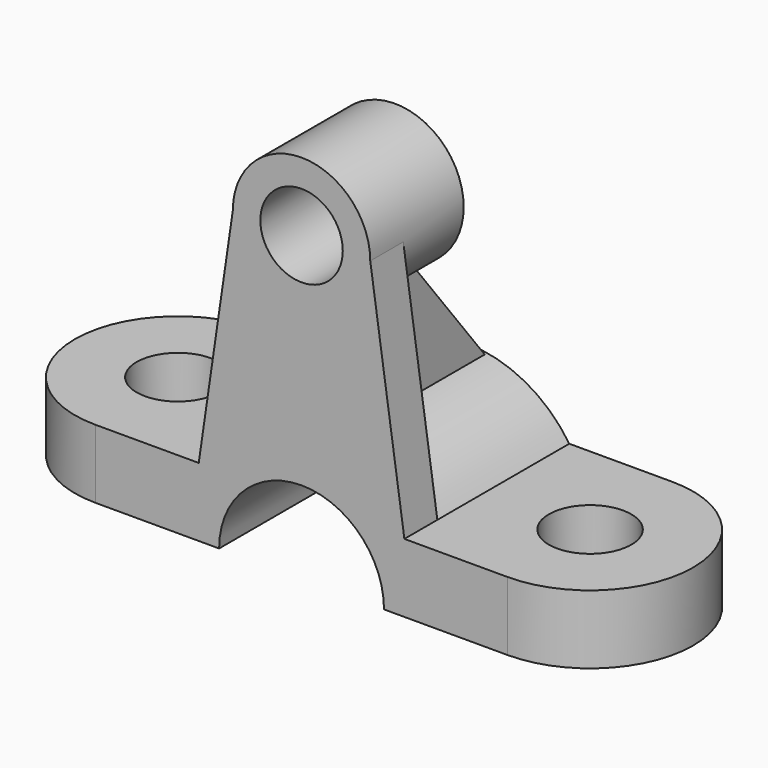
from build123d import *

# Parameters (mm, degrees)
PAD_DEPTH       = 30
PAD001_DEPTH    = 10
PAD002_DEPTH    = 10
SKETCH004_R     = 6
POCKET_DEPTH    = 10.001
SKETCH005_R     = 6
POCKET001_DEPTH = 10.001
PAD003_DEPTH    = 6
SKETCH007_R     = 10
SKETCH007_R_2   = 6
PAD004_DEPTH    = 17
SKETCH008_R     = 6
POCKET002_DEPTH = 30.001
PAD005_DEPTH    = 3


with BuildPart() as body:
    # Sketch → Pad (new body)
    with BuildSketch(Plane.XZ):
        with BuildLine():
            ThreePointArc((12, 0), (0, 12), (-12, 0))
            Line((-12, 0), (-30, 0))
            Line((-30, 10), (-30, 0))
            Line((-14.96663, 10), (-30, 10))
            ThreePointArc((14.96663, 10), (0, 18), (-14.96663, 10))
            Line((14.96663, 10), (30, 10))
            Line((30, 10), (30, 0))
            Line((12, 0), (30, 0))
        make_face()
    extrude(amount=PAD_DEPTH)

    # Sketch002 (on Face7 of Pad) → Pad001 (join)
    with BuildSketch(Plane(origin=(0, 0, 10), x_dir=(-1, 0, 0), z_dir=(0, 0, 1))):
        with BuildLine():
            Line((-30, 30), (-30, 0))
            ThreePointArc((-30, 30), (-45, 15), (-30, 0))
        make_face()
    extrude(amount=-PAD001_DEPTH)

    # Sketch003 (on Face6 of Pad001) → Pad002 (join)
    with BuildSketch(Plane(origin=(0, 0, 10), x_dir=(-1, 0, 0), z_dir=(0, 0, 1))):
        with BuildLine():
            Line((30, 30), (30, 0))
            ThreePointArc((30, 0), (45, 15), (30, 30))
        make_face()
    extrude(amount=-PAD002_DEPTH)

    # Sketch004 (on Face1 of Pad002) → Pocket (cut, through all)
    with BuildSketch(Plane(origin=(0, 0, 10), x_dir=(-1, 0, 0), z_dir=(0, 0, 1))):
        with Locations((-30, 15)):
            Circle(SKETCH004_R)
    extrude(amount=-POCKET_DEPTH, mode=Mode.SUBTRACT)

    # Sketch005 (on Face12 of Pocket) → Pocket001 (cut, through all)
    with BuildSketch(Plane(origin=(0, 0, 10), x_dir=(-1, 0, 0), z_dir=(0, 0, 1))):
        with Locations((30, 15)):
            Circle(SKETCH005_R)
    extrude(amount=-POCKET001_DEPTH, mode=Mode.SUBTRACT)

    # Sketch006 (on Face5 of Pocket001) → Pad003 (join)
    with BuildSketch(Plane.XZ.offset(30)):
        with BuildLine():
            Line((-14.96663, 10), (-10, 44))
            Line((-10, 44), (10, 44))
            Line((10, 44), (14.96663, 10))
            ThreePointArc((14.96663, 10), (0, 18), (-14.96663, 10))
        make_face()
    extrude(amount=-PAD003_DEPTH)

    # Sketch007 (on Face15 of Pad003) → Pad004 (join)
    with BuildSketch(Plane.XZ.offset(30)):
        with Locations((0, 44)):
            Circle(SKETCH007_R)
        with Locations((0, 44)):
            Circle(SKETCH007_R_2, mode=Mode.SUBTRACT)
    extrude(amount=-PAD004_DEPTH)

    # Sketch008 (on Face15 of Pad004) → Pocket002 (cut, through all)
    with BuildSketch(Plane.XZ.offset(30)):
        with Locations((0, 44)):
            Circle(SKETCH008_R)
    extrude(amount=-POCKET002_DEPTH, mode=Mode.SUBTRACT)


with BuildPart() as body001:
    # Sketch010 → Pad005 (new body, symmetric)
    with BuildSketch(Plane.YZ):
        Polygon((-13.353809, 34.213029), (-0.305546, 17.564219), (-0.398215, 15.247524), (-25.696514, 15.618195), (-25.789181, 34.337082), (-13.557035, 34.893089), align=None)
    extrude(amount=PAD005_DEPTH, both=True)


solid = Compound([body.part, body001.part])
